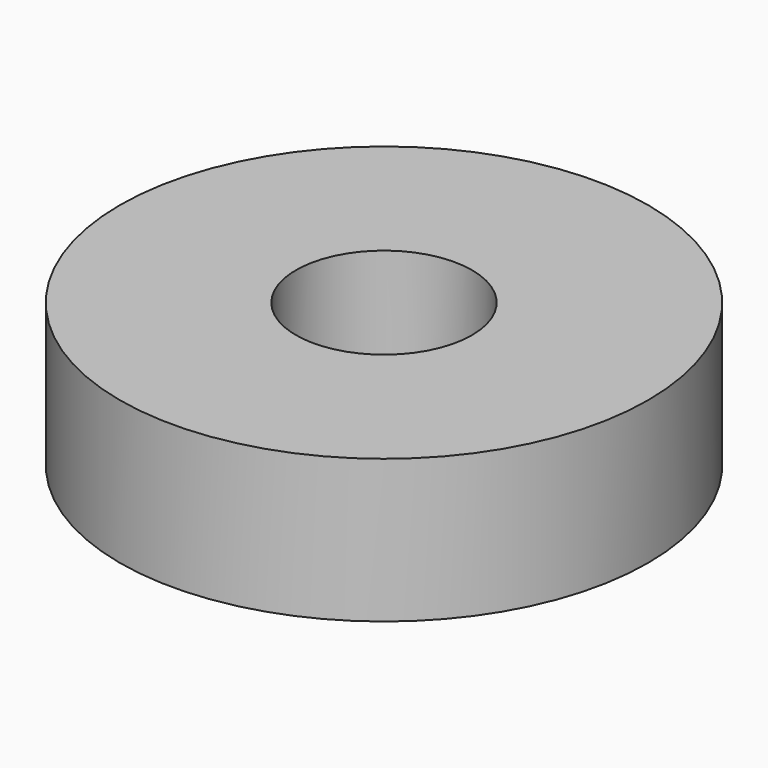
from build123d import *

# Parameters (mm, degrees)
F2_R     = 3.5
F3_DEPTH = 17


with BuildPart() as f1:
    # F0 (on Front) → F1 (revolve)
    with BuildSketch(Plane.XZ):
        Polygon((44.5, 26), (57.15, 0), (57.15, 31), (19.05, 31), (19.05, 9), (25.4, 9), (35, 18.0625), (35, 26), align=None)
    revolve(axis=Axis((0, 0, 19.05), (0, 0, 1)))

    # F2 (on face) → F3 (cut, through all)
    with BuildSketch(Plane(origin=(0, 0, 9), x_dir=(1, 0, 0), z_dir=(0, 0, -1))):
        with Locations((0, 35)):
            Circle(F2_R)
        with Locations((-35, 0)):
            Circle(F2_R)
        with Locations((0, -35)):
            Circle(F2_R)
        with Locations((35, 0)):
            Circle(F2_R)
    extrude(amount=-F3_DEPTH, mode=Mode.SUBTRACT)


solid = f1.part
